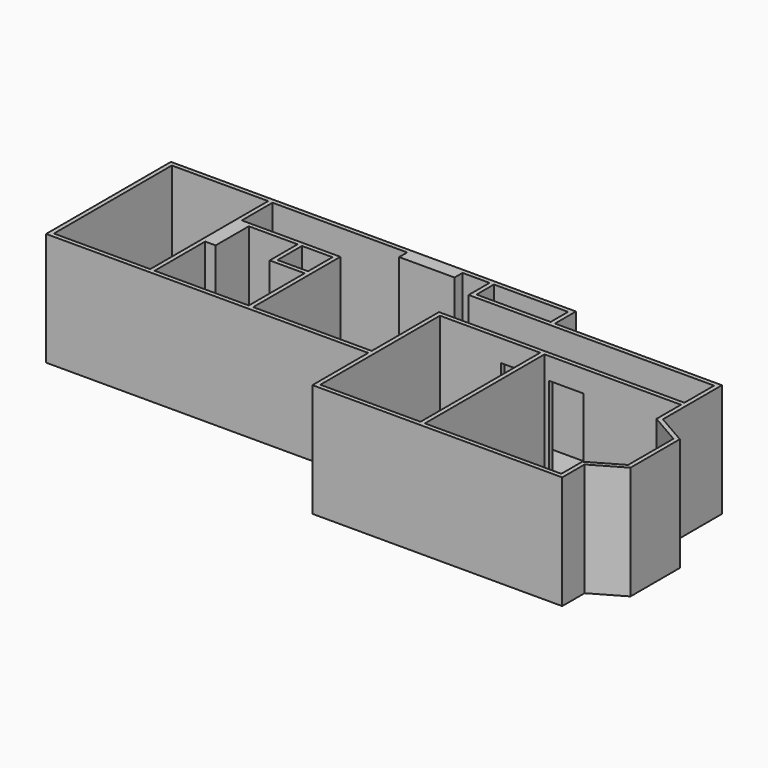
from build123d import *

# Parameters (mm, degrees)
F0_W     = 2210
F0_H     = 3380
F0_W_2   = 700
F0_H_2   = 700
F0_W_3   = 1700
F0_H_3   = 500
F1_DEPTH = 2500
F3_DEPTH = 100
F4_W     = 800
F4_H     = 2000
F5_DEPTH = 100


with BuildPart() as f1:
    # F0 (on Top) → F1 (new body)
    with BuildSketch(Plane.XY):
        Polygon((7390, 100), (-100, 100), (-100, -3480), (7290, -3480), (7290, -5080), (10190, -5080), (13020, -5080), (13020, -4980), (13020, -4437.735027), (13740, -4022.042833), (13740, -2607.957167), (13020, -2192.264973), (13020, -1550), (13020, -500), (12720, -500), (9190, -500), (9190, 100), align=None)
        Polygon((7390, -4980), (7390, -3480), (7390, -1550), (9690, -1550), (9690, -4980), (9590, -4980), (7890, -4980), align=None, mode=Mode.SUBTRACT)
        Polygon((10090, -1550), (10190, -1550), (12720, -1550), (12920, -1550), (12920, -2250), (13640, -2665.692194), (13640, -3964.307806), (12920, -4380), (12920, -4980), (12210, -4980), (10890, -4980), (10190, -4980), (10090, -4980), (9790, -4980), (9790, -1550), align=None, mode=Mode.SUBTRACT)
        with Locations((1105, -1690)):
            Rectangle(F0_W, F0_H, mode=Mode.SUBTRACT)
        Polygon((4470, -3380), (2310, -3380), (2310, -1930), (2550, -1930), (2550, -980), (3670, -980), (3670, -1780), (4470, -1780), align=None, mode=Mode.SUBTRACT)
        with Locations((4120, -1330)):
            Rectangle(F0_W_2, F0_H_2, mode=Mode.SUBTRACT)
        Polygon((7290, 0), (7290, -600), (7390, -600), (12620, -600), (12920, -600), (12920, -1450), (12620, -1450), (10190, -1450), (7390, -1450), (7290, -1450), (7290, -1550), (7290, -3380), (4570, -3380), (4570, -880), (2310, -880), (2310, 0), (5400, 0), (5400, -230), (6670, -230), (6670, 0), align=None, mode=Mode.SUBTRACT)
        with Locations((8240, -250)):
            Rectangle(F0_W_3, F0_H_3, mode=Mode.SUBTRACT)
    extrude(amount=F1_DEPTH)

    # F2 (on face) → F3 (join)
    with BuildSketch(Plane(origin=(0, 0, 0), x_dir=(1, 0, 0), z_dir=(0, 0, -1))):
        Polygon((7290, 3480), (-100, 3480), (-100, -100), (9190, -100), (9190, 500), (13020, 500), (13020, 2192.264973), (13740, 2607.957167), (13740, 4022.042833), (13020, 4437.735027), (13020, 5080), (7290, 5080), align=None)
    extrude(amount=F3_DEPTH)

    # F4 (on face) → F5 (cut, through all)
    with BuildSketch(Plane.XZ.offset(1550)):
        with Locations((10290, 1000)):
            Rectangle(F4_W, F4_H)
        with Locations((9190, 1000)):
            Rectangle(F4_W, F4_H)
    extrude(amount=-F5_DEPTH, mode=Mode.SUBTRACT)


solid = f1.part
